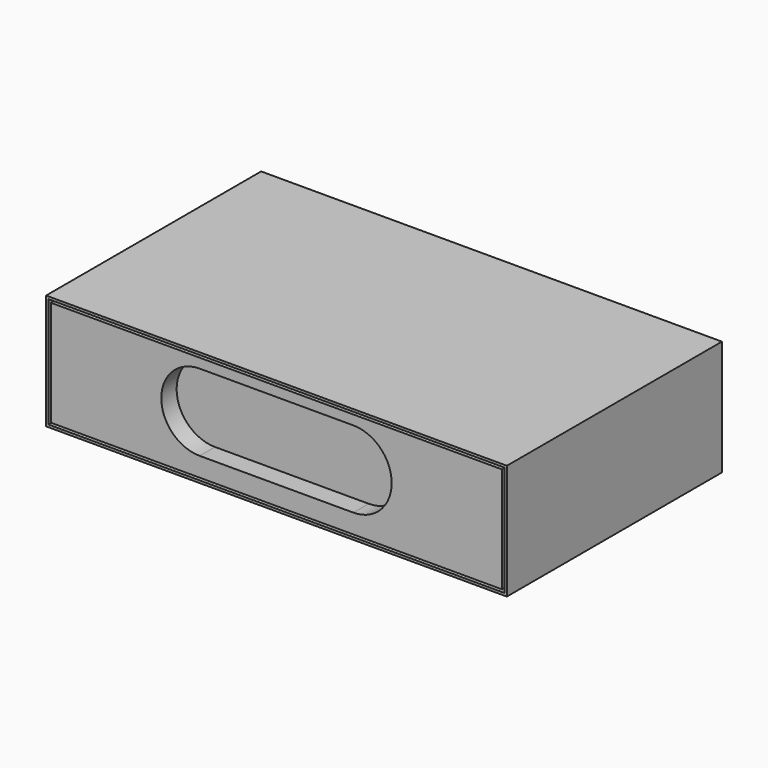
from build123d import *

# Parameters (mm, degrees)
F0_W     = 609.6
F0_H     = 152.4
F1_DEPTH = 355.6
F2_W     = 603.25
F2_H     = 146.05
F3_DEPTH = 352.425
F4_W     = 596.9
F4_H     = 139.7
F5_DEPTH = 352.425
F7_DEPTH = 25.4


with BuildPart() as f1:
    # F0 (on Front) → F1 (new body)
    with BuildSketch(Plane.XZ):
        Rectangle(F0_W, F0_H)
    extrude(amount=F1_DEPTH)

    # F2 (on face) → F3 (cut)
    with BuildSketch(Plane.XZ.offset(355.6)):
        Rectangle(F2_W, F2_H)
    extrude(amount=-F3_DEPTH, mode=Mode.SUBTRACT)

    # F4 (on face) → F5 (join, through all)
    with BuildSketch(Plane.XZ.offset(3.175)):
        Rectangle(F4_W, F4_H)
    extrude(amount=F5_DEPTH)

    # F6 (on face) → F7 (cut)
    with BuildSketch(Plane.XZ.offset(355.6)):
        with BuildLine():
            ThreePointArc((-101.6, 57.15), (-152.4, 6.35), (-101.6, -44.45))
            Line((-101.6, -44.45), (0, -44.45))
            Line((0, -44.45), (0, 57.15))
            Line((0, 57.15), (-101.6, 57.15))
        make_face()
        with BuildLine():
            Line((0, 57.15), (0, -44.45))
            Line((0, -44.45), (101.6, -44.45))
            ThreePointArc((101.6, -44.45), (152.4, 6.35), (101.6, 57.15))
            Line((101.6, 57.15), (0, 57.15))
        make_face()
    extrude(amount=-F7_DEPTH, mode=Mode.SUBTRACT)


solid = f1.part
